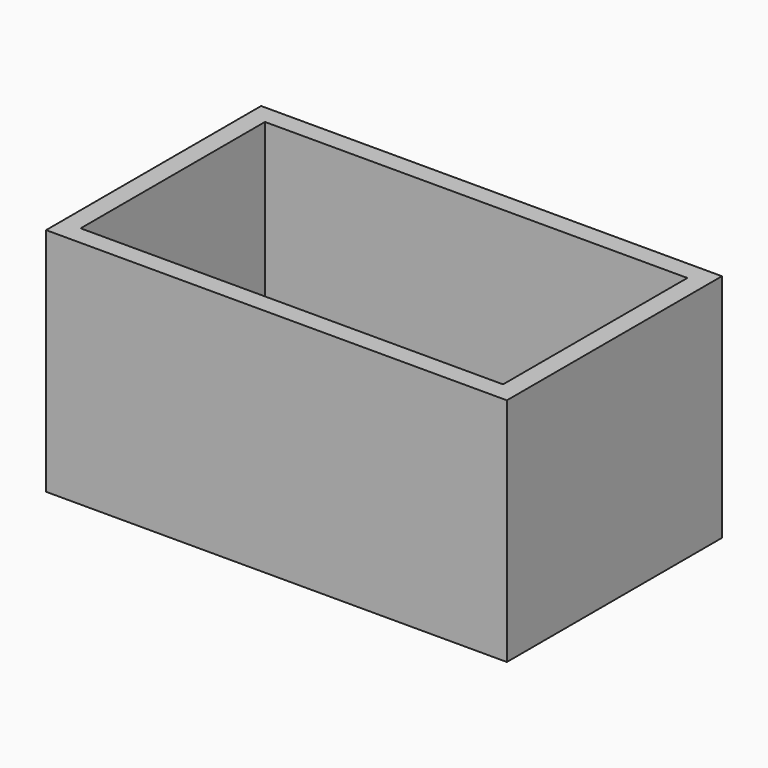
from build123d import *

# Parameters (mm, degrees)
F1_DEPTH = 76.2
F2_DEPTH = 69.85


with BuildPart() as f1:
    # F0 (on Top) → F1 (new body)
    with BuildSketch(Plane.XY):
        Polygon((-69.85, -38.1), (0, -38.1), (69.85, -38.1), (69.85, 38.1), (0, 38.1), (-69.85, 38.1), align=None)
        Polygon((-76.2, -44.45), (0, -44.45), (0, -38.1), (-69.85, -38.1), (-69.85, 38.1), (0, 38.1), (0, 44.45), (-76.2, 44.45), align=None)
        Polygon((0, -44.45), (76.2, -44.45), (76.2, 44.45), (0, 44.45), (0, 38.1), (69.85, 38.1), (69.85, -38.1), (0, -38.1), align=None)
    extrude(amount=-F1_DEPTH)

    # F0 (on Top) → F2 (cut)
    with BuildSketch(Plane.XY):
        Polygon((-69.85, -38.1), (0, -38.1), (69.85, -38.1), (69.85, 38.1), (0, 38.1), (-69.85, 38.1), align=None)
    extrude(amount=-F2_DEPTH, mode=Mode.SUBTRACT)


solid = f1.part
